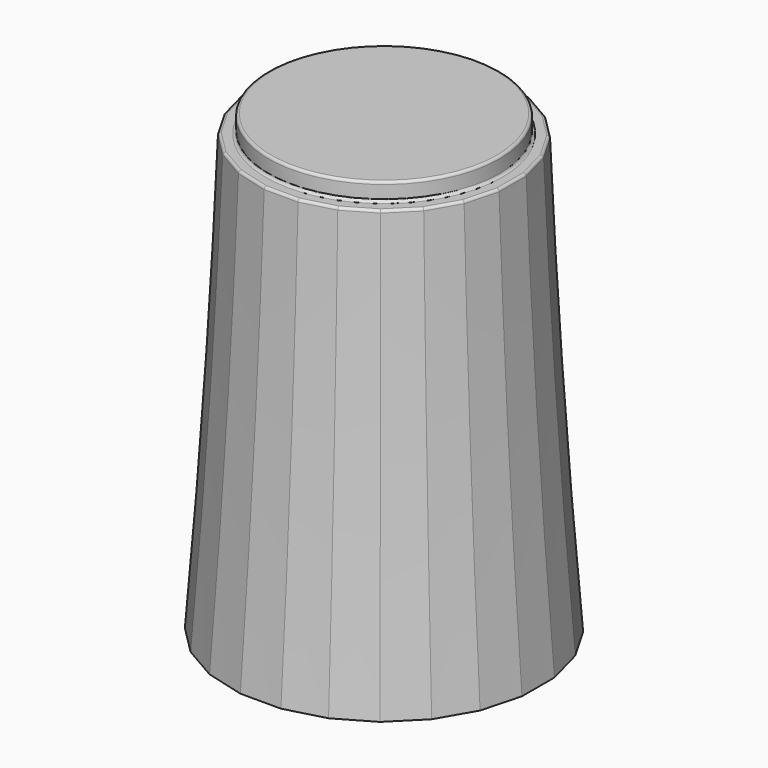
from build123d import *

# Parameters (mm, degrees)
SKETCH355_R     = 4.5
PAD062_DEPTH    = 0.7
SKETCH354_R     = 5
POCKET053_DEPTH = 1
SKETCH343_R     = 4.65
POCKET054_DEPTH = 1
POCKET049_DEPTH = 8
CHAMFER043_SIZE = 1.4
CHAMFER044_SIZE = 0.3
FILLET023_R     = 0.1


with BuildPart() as part:
    # Sketch356 → AdditiveLoft027 section 0
    with BuildSketch(Plane.XY):
        Polygon((-0.789915, 6), (-2.315914, 5.59111), (-3.684086, 4.801195), (-4.801195, 3.684086), (-5.59111, 2.315914), (-6, 0.789915), (-6, -0.789915), (-5.59111, -2.315914), (-4.801195, -3.684086), (-3.684086, -4.801195), (-2.315914, -5.59111), (-0.789915, -6), (0.789915, -6), (2.315914, -5.59111), (3.684086, -4.801195), (4.801195, -3.684086), (5.59111, -2.315914), (6, -0.789915), (6, 0.789915), (5.59111, 2.315914), (4.801195, 3.684086), (3.684086, 4.801195), (2.315914, 5.59111), (0.789915, 6), align=None)
    # Sketch345 → AdditiveLoft027 section 1
    with BuildSketch(Plane.XY.offset(7)):
        Polygon((-0.724089, 5.5), (-2.122921, 5.125184), (-3.377079, 4.401095), (-4.401095, 3.377079), (-5.125184, 2.122921), (-5.5, 0.724089), (-5.5, -0.724089), (-5.125184, -2.122921), (-4.401095, -3.377079), (-3.377079, -4.401095), (-2.122921, -5.125184), (-0.724089, -5.5), (0.724089, -5.5), (2.122921, -5.125184), (3.377079, -4.401095), (4.401095, -3.377079), (5.125184, -2.122921), (5.5, -0.724089), (5.5, 0.724089), (5.125184, 2.122921), (4.401095, 3.377079), (3.377079, 4.401095), (2.122921, 5.125184), (0.724089, 5.5), align=None)
    # Sketch346 → AdditiveLoft027 section 2
    with BuildSketch(Plane.XY.offset(17)):
        Polygon((-4.659258, 1.929928), (-5, 0.658262), (-5, -0.658262), (-4.659258, -1.929928), (-4.000996, -3.070072), (-3.070072, -4.000996), (-1.929928, -4.659258), (-0.658262, -5), (0.658262, -5), (1.929928, -4.659258), (3.070072, -4.000996), (4.000996, -3.070072), (4.659258, -1.929928), (5, -0.658262), (5, 0.658262), (4.659258, 1.929928), (4.000996, 3.070072), (3.070072, 4.000996), (1.929928, 4.659258), (0.658262, 5), (-0.658262, 5), (-1.929928, 4.659258), (-3.070072, 4.000996), (-4.000996, 3.070072), align=None)
    loft()

    # Sketch355 (on Face3 of AdditiveLoft027) → Pad062 (new body)
    with BuildSketch(Plane.XY.offset(17)):
        Circle(SKETCH355_R)
    extrude(amount=PAD062_DEPTH)

    # Sketch354 (on Face1 of Pad062) → Pocket053 (cut)
    with BuildSketch(Plane(origin=(0, 0, 0), x_dir=(1, 0, 0), z_dir=(0, 0, -1))):
        Circle(SKETCH354_R)
    extrude(amount=-POCKET053_DEPTH, mode=Mode.SUBTRACT)

    # Sketch343 (on Face28 of Pocket053) → Pocket054 (cut)
    with BuildSketch(Plane(origin=(0, 0, 1), x_dir=(1, 0, 0), z_dir=(0, 0, -1))):
        Circle(SKETCH343_R)
    extrude(amount=-POCKET054_DEPTH, mode=Mode.SUBTRACT)

    # Sketch344 (on Face32 of Pocket054) → Pocket049 (cut)
    with BuildSketch(Plane(origin=(0, 0, 2), x_dir=(1, 0, 0), z_dir=(0, 0, -1))):
        with BuildLine():
            ThreePointArc((-1.741757, 2.442598), (0, -3), (1.741757, 2.442598))
            Line((-1.741757, 2.442598), (1.741757, 2.442598))
        make_face()
    extrude(amount=-POCKET049_DEPTH, mode=Mode.SUBTRACT)

    # Chamfer043
    chamfer043_edges = [part.edges().sort_by_distance(p)[0] for p in [
        (0, 3, 2),
        (0, -2.442598, 2),
    ]]
    chamfer(chamfer043_edges, length=CHAMFER043_SIZE)

    # Chamfer044
    chamfer044_edges = [part.edges().sort_by_distance(p)[0] for p in [
        (-4.65, 0, 1),
    ]]
    chamfer(chamfer044_edges, length=CHAMFER044_SIZE)

    # Fillet023
    fillet023_edges = [part.edges().sort_by_distance(p)[0] for p in [
        (-4.5, 0, 17.7),
        (-4.829629, 1.294095, 17),
        (-4.330127, 2.5, 17),
        (-5, 0, 17),
        (-3.535534, 3.535534, 17),
        (-4.829629, -1.294095, 17),
        (-2.5, 4.330127, 17),
        (-4.330127, -2.5, 17),
        (-1.294095, 4.829629, 17),
        (-3.535534, -3.535534, 17),
        (0, 5, 17),
        (-2.5, -4.330127, 17),
        (1.294095, 4.829629, 17),
        (-1.294095, -4.829629, 17),
        (2.5, 4.330127, 17),
        (0, -5, 17),
        (3.535534, 3.535534, 17),
        (1.294095, -4.829629, 17),
        (4.330127, 2.5, 17),
        (2.5, -4.330127, 17),
        (4.829629, 1.294095, 17),
        (3.535534, -3.535534, 17),
        (5, 0, 17),
        (4.330127, -2.5, 17),
        (4.829629, -1.294095, 17),
        (-4.5, 0, 17),
    ]]
    fillet(fillet023_edges, radius=FILLET023_R)


solid = part.part
